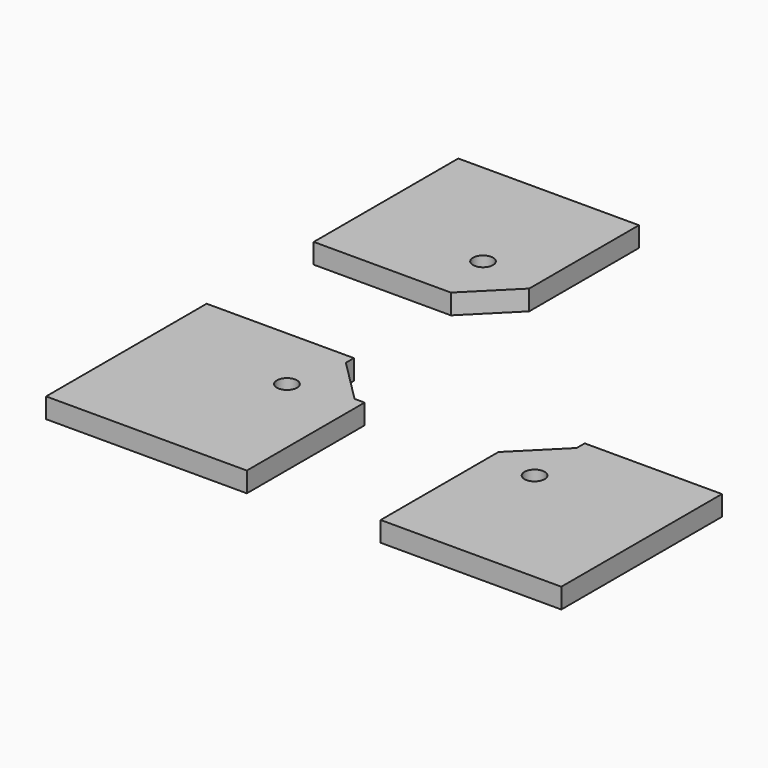
from build123d import *

# Parameters (mm, degrees)
F0_R     = 1.5
F1_DEPTH = 3


with BuildPart() as f1:
    # F0 (on Top) → F1 (new body)
    with BuildSketch(Plane.XY):
        Polygon((-2.903625, 7.854014), (-24.903625, 7.854014), (-24.903625, -22.145986), (5.096375, -22.145986), (5.096375, -0.145986), (3.596375, -0.145986), (-2.903625, 6.354014), align=None)
        with Locations((-4.903625, -2.145986)):
            Circle(F0_R, mode=Mode.SUBTRACT)
        Polygon((52.096375, 7.854014), (31.596375, 7.854014), (31.596375, 6.354014), (25.096375, -0.145986), (25.096375, -22.145986), (52.096375, -22.145986), align=None)
        with Locations((32.096375, -2.145986)):
            Circle(F0_R, mode=Mode.SUBTRACT)
        Polygon((2.096375, 54.854014), (-24.903625, 54.854014), (-24.903625, 27.854014), (-4.403625, 27.854014), (2.096375, 34.354014), align=None)
        with Locations((-6.403625, 36.354014)):
            Circle(F0_R, mode=Mode.SUBTRACT)
    extrude(amount=F1_DEPTH)


solid = f1.part
